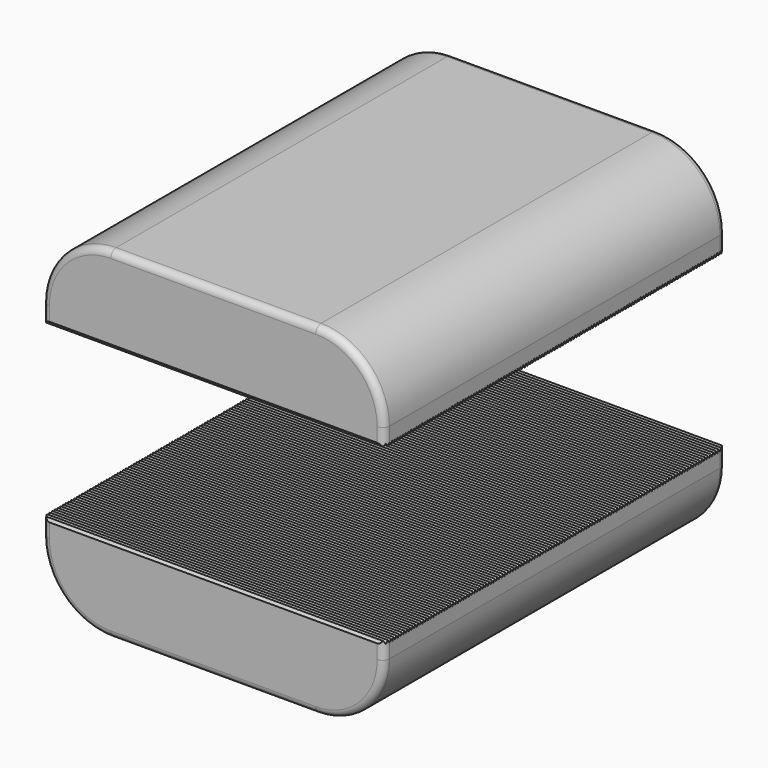
from build123d import *

# Parameters (mm, degrees)
F0_W     = 25.4
F0_H     = 6.35
F1_DEPTH = 15.875
F3_DEPTH = 12.7
F4_R     = 5.08
F5_R     = 0.508


with BuildPart() as f1:
    # F0 (on Front) → F1 (new body, symmetric)
    with BuildSketch(Plane.XZ):
        with Locations((0, -9.525)):
            Rectangle(F0_W, F0_H)
        with Locations((0, 9.525)):
            Rectangle(F0_W, F0_H)
    extrude(amount=F1_DEPTH, both=True)

    # F2 (on Right) → F3 (cut, symmetric)
    with BuildSketch(Plane.YZ):
        Polygon((0.127, 6.56997), (0, 6.35), (-0.127, 6.56997), (-0.254, 6.35), (-0.381, 6.56997), (-0.508, 6.35), (-0.635, 6.56997), (-0.762, 6.35), (-0.889, 6.56997), (-1.016, 6.35), (-1.143, 6.56997), (-1.27, 6.35), (-1.397, 6.56997), (-1.524, 6.35), (-1.651, 6.56997), (-1.778, 6.35), (-1.905, 6.56997), (-2.032, 6.35), (-2.159, 6.56997), (-2.286, 6.35), (-2.413, 6.56997), (-2.54, 6.35), (-2.667, 6.56997), (-2.794, 6.35), (-2.921, 6.56997), (-3.048, 6.35), (-3.175, 6.56997), (-3.302, 6.35), (-3.429, 6.56997), (-3.556, 6.35), (-3.683, 6.56997), (-3.81, 6.35), (-3.937, 6.56997), (-4.064, 6.35), (-4.191, 6.56997), (-4.318, 6.35), (-4.445, 6.56997), (-4.572, 6.35), (-4.699, 6.56997), (-4.826, 6.35), (-4.953, 6.56997), (-5.08, 6.35), (-5.207, 6.56997), (-5.334, 6.35), (-5.461, 6.56997), (-5.588, 6.35), (-5.715, 6.56997), (-5.842, 6.35), (-5.969, 6.56997), (-6.096, 6.35), (-6.223, 6.56997), (-6.35, 6.35), (-6.477, 6.56997), (-6.604, 6.35), (-6.731, 6.56997), (-6.858, 6.35), (-6.985, 6.56997), (-7.112, 6.35), (-7.239, 6.56997), (-7.366, 6.35), (-7.493, 6.56997), (-7.62, 6.35), (-7.747, 6.56997), (-7.874, 6.35), (-8.001, 6.56997), (-8.128, 6.35), (-8.255, 6.56997), (-8.382, 6.35), (-8.509, 6.56997), (-8.636, 6.35), (-8.763, 6.56997), (-8.89, 6.35), (-9.017, 6.56997), (-9.144, 6.35), (-9.271, 6.56997), (-9.398, 6.35), (-9.525, 6.56997), (-9.652, 6.35), (-9.779, 6.56997), (-9.906, 6.35), (-10.033, 6.56997), (-10.16, 6.35), (-10.287, 6.56997), (-10.414, 6.35), (-10.541, 6.56997), (-10.668, 6.35), (-10.795, 6.56997), (-10.922, 6.35), (-11.049, 6.56997), (-11.176, 6.35), (-11.303, 6.56997), (-11.43, 6.35), (-11.557, 6.56997), (-11.684, 6.35), (-11.811, 6.56997), (-11.938, 6.35), (-12.065, 6.56997), (-12.192, 6.35), (-12.319, 6.56997), (-12.446, 6.35), (-12.573, 6.56997), (-12.7, 6.35), (-12.827, 6.56997), (-12.954, 6.35), (-13.081, 6.56997), (-13.208, 6.35), (-13.335, 6.56997), (-13.462, 6.35), (-13.589, 6.56997), (-13.716, 6.35), (-13.843, 6.56997), (-13.97, 6.35), (-14.097, 6.56997), (-14.224, 6.35), (-14.351, 6.56997), (-14.478, 6.35), (-14.605, 6.56997), (-14.732, 6.35), (-14.859, 6.56997), (-14.986, 6.35), (-15.113, 6.56997), (-15.24, 6.35), (-15.367, 6.56997), (-15.494, 6.35), (-15.621, 6.56997), (-15.748, 6.35), (-15.875, 6.56997), (-16.002, 6.35), (-16.129, 6.56997), (-16.256, 6.35), (-16.256, 6.096), (16.256, 6.096), (16.256, 6.35), (16.129, 6.56997), (16.002, 6.35), (15.875, 6.56997), (15.748, 6.35), (15.621, 6.56997), (15.494, 6.35), (15.367, 6.56997), (15.24, 6.35), (15.113, 6.56997), (14.986, 6.35), (14.859, 6.56997), (14.732, 6.35), (14.605, 6.56997), (14.478, 6.35), (14.351, 6.56997), (14.224, 6.35), (14.097, 6.56997), (13.97, 6.35), (13.843, 6.56997), (13.716, 6.35), (13.589, 6.56997), (13.462, 6.35), (13.335, 6.56997), (13.208, 6.35), (13.081, 6.56997), (12.954, 6.35), (12.827, 6.56997), (12.7, 6.35), (12.573, 6.56997), (12.446, 6.35), (12.319, 6.56997), (12.192, 6.35), (12.065, 6.56997), (11.938, 6.35), (11.811, 6.56997), (11.684, 6.35), (11.557, 6.56997), (11.43, 6.35), (11.303, 6.56997), (11.176, 6.35), (11.049, 6.56997), (10.922, 6.35), (10.795, 6.56997), (10.668, 6.35), (10.541, 6.56997), (10.414, 6.35), (10.287, 6.56997), (10.16, 6.35), (10.033, 6.56997), (9.906, 6.35), (9.779, 6.56997), (9.652, 6.35), (9.525, 6.56997), (9.398, 6.35), (9.271, 6.56997), (9.144, 6.35), (9.017, 6.56997), (8.89, 6.35), (8.763, 6.56997), (8.636, 6.35), (8.509, 6.56997), (8.382, 6.35), (8.255, 6.56997), (8.128, 6.35), (8.001, 6.56997), (7.874, 6.35), (7.747, 6.56997), (7.62, 6.35), (7.493, 6.56997), (7.366, 6.35), (7.239, 6.56997), (7.112, 6.35), (6.985, 6.56997), (6.858, 6.35), (6.731, 6.56997), (6.604, 6.35), (6.477, 6.56997), (6.35, 6.35), (6.223, 6.56997), (6.096, 6.35), (5.969, 6.56997), (5.842, 6.35), (5.715, 6.56997), (5.588, 6.35), (5.461, 6.56997), (5.334, 6.35), (5.207, 6.56997), (5.08, 6.35), (4.953, 6.56997), (4.826, 6.35), (4.699, 6.56997), (4.572, 6.35), (4.445, 6.56997), (4.318, 6.35), (4.191, 6.56997), (4.064, 6.35), (3.937, 6.56997), (3.81, 6.35), (3.683, 6.56997), (3.556, 6.35), (3.429, 6.56997), (3.302, 6.35), (3.175, 6.56997), (3.048, 6.35), (2.921, 6.56997), (2.794, 6.35), (2.667, 6.56997), (2.54, 6.35), (2.413, 6.56997), (2.286, 6.35), (2.159, 6.56997), (2.032, 6.35), (1.905, 6.56997), (1.778, 6.35), (1.651, 6.56997), (1.524, 6.35), (1.397, 6.56997), (1.27, 6.35), (1.143, 6.56997), (1.016, 6.35), (0.889, 6.56997), (0.762, 6.35), (0.635, 6.56997), (0.508, 6.35), (0.381, 6.56997), (0.254, 6.35), align=None)
        Polygon((9.652, -6.35), (9.779, -6.56997), (9.906, -6.35), (10.033, -6.56997), (10.16, -6.35), (10.287, -6.56997), (10.414, -6.35), (10.541, -6.56997), (10.668, -6.35), (10.795, -6.56997), (10.922, -6.35), (11.049, -6.56997), (11.176, -6.35), (11.303, -6.56997), (11.43, -6.35), (11.557, -6.56997), (11.684, -6.35), (11.811, -6.56997), (11.938, -6.35), (12.065, -6.56997), (12.192, -6.35), (12.319, -6.56997), (12.446, -6.35), (12.573, -6.56997), (12.7, -6.35), (12.827, -6.56997), (12.954, -6.35), (13.081, -6.56997), (13.208, -6.35), (13.335, -6.56997), (13.462, -6.35), (13.589, -6.56997), (13.716, -6.35), (13.843, -6.56997), (13.97, -6.35), (14.097, -6.56997), (14.224, -6.35), (14.351, -6.56997), (14.478, -6.35), (14.605, -6.56997), (14.732, -6.35), (14.859, -6.56997), (14.986, -6.35), (15.113, -6.56997), (15.24, -6.35), (15.367, -6.56997), (15.494, -6.35), (15.621, -6.56997), (15.748, -6.35), (15.875, -6.56997), (16.002, -6.35), (16.129, -6.56997), (16.256, -6.35), (16.256, -6.096), (-16.256, -6.096), (-16.256, -6.35), (-16.129, -6.56997), (-16.002, -6.35), (-15.875, -6.56997), (-15.748, -6.35), (-15.621, -6.56997), (-15.494, -6.35), (-15.367, -6.56997), (-15.24, -6.35), (-15.113, -6.56997), (-14.986, -6.35), (-14.859, -6.56997), (-14.732, -6.35), (-14.605, -6.56997), (-14.478, -6.35), (-14.351, -6.56997), (-14.224, -6.35), (-14.097, -6.56997), (-13.97, -6.35), (-13.843, -6.56997), (-13.716, -6.35), (-13.589, -6.56997), (-13.462, -6.35), (-13.335, -6.56997), (-13.208, -6.35), (-13.081, -6.56997), (-12.954, -6.35), (-12.827, -6.56997), (-12.7, -6.35), (-12.573, -6.56997), (-12.446, -6.35), (-12.319, -6.56997), (-12.192, -6.35), (-12.065, -6.56997), (-11.938, -6.35), (-11.811, -6.56997), (-11.684, -6.35), (-11.557, -6.56997), (-11.43, -6.35), (-11.303, -6.56997), (-11.176, -6.35), (-11.049, -6.56997), (-10.922, -6.35), (-10.795, -6.56997), (-10.668, -6.35), (-10.541, -6.56997), (-10.414, -6.35), (-10.287, -6.56997), (-10.16, -6.35), (-10.033, -6.56997), (-9.906, -6.35), (-9.779, -6.56997), (-9.652, -6.35), (-9.525, -6.56997), (-9.398, -6.35), (-9.271, -6.56997), (-9.144, -6.35), (-9.017, -6.56997), (-8.89, -6.35), (-8.763, -6.56997), (-8.636, -6.35), (-8.509, -6.56997), (-8.382, -6.35), (-8.255, -6.56997), (-8.128, -6.35), (-8.001, -6.56997), (-7.874, -6.35), (-7.747, -6.56997), (-7.62, -6.35), (-7.493, -6.56997), (-7.366, -6.35), (-7.239, -6.56997), (-7.112, -6.35), (-6.985, -6.56997), (-6.858, -6.35), (-6.731, -6.56997), (-6.604, -6.35), (-6.477, -6.56997), (-6.35, -6.35), (-6.223, -6.56997), (-6.096, -6.35), (-5.969, -6.56997), (-5.842, -6.35), (-5.715, -6.56997), (-5.588, -6.35), (-5.461, -6.56997), (-5.334, -6.35), (-5.207, -6.56997), (-5.08, -6.35), (-4.953, -6.56997), (-4.826, -6.35), (-4.699, -6.56997), (-4.572, -6.35), (-4.445, -6.56997), (-4.318, -6.35), (-4.191, -6.56997), (-4.064, -6.35), (-3.937, -6.56997), (-3.81, -6.35), (-3.683, -6.56997), (-3.556, -6.35), (-3.429, -6.56997), (-3.302, -6.35), (-3.175, -6.56997), (-3.048, -6.35), (-2.921, -6.56997), (-2.794, -6.35), (-2.667, -6.56997), (-2.54, -6.35), (-2.413, -6.56997), (-2.286, -6.35), (-2.159, -6.56997), (-2.032, -6.35), (-1.905, -6.56997), (-1.778, -6.35), (-1.651, -6.56997), (-1.524, -6.35), (-1.397, -6.56997), (-1.27, -6.35), (-1.143, -6.56997), (-1.016, -6.35), (-0.889, -6.56997), (-0.762, -6.35), (-0.635, -6.56997), (-0.508, -6.35), (-0.381, -6.56997), (-0.254, -6.35), (-0.127, -6.56997), (0, -6.35), (0.127, -6.56997), (0.254, -6.35), (0.381, -6.56997), (0.508, -6.35), (0.635, -6.56997), (0.762, -6.35), (0.889, -6.56997), (1.016, -6.35), (1.143, -6.56997), (1.27, -6.35), (1.397, -6.56997), (1.524, -6.35), (1.651, -6.56997), (1.778, -6.35), (1.905, -6.56997), (2.032, -6.35), (2.159, -6.56997), (2.286, -6.35), (2.413, -6.56997), (2.54, -6.35), (2.667, -6.56997), (2.794, -6.35), (2.921, -6.56997), (3.048, -6.35), (3.175, -6.56997), (3.302, -6.35), (3.429, -6.56997), (3.556, -6.35), (3.683, -6.56997), (3.81, -6.35), (3.937, -6.56997), (4.064, -6.35), (4.191, -6.56997), (4.318, -6.35), (4.445, -6.56997), (4.572, -6.35), (4.699, -6.56997), (4.826, -6.35), (4.953, -6.56997), (5.08, -6.35), (5.207, -6.56997), (5.334, -6.35), (5.461, -6.56997), (5.588, -6.35), (5.715, -6.56997), (5.842, -6.35), (5.969, -6.56997), (6.096, -6.35), (6.223, -6.56997), (6.35, -6.35), (6.477, -6.56997), (6.604, -6.35), (6.731, -6.56997), (6.858, -6.35), (6.985, -6.56997), (7.112, -6.35), (7.239, -6.56997), (7.366, -6.35), (7.493, -6.56997), (7.62, -6.35), (7.747, -6.56997), (7.874, -6.35), (8.001, -6.56997), (8.128, -6.35), (8.255, -6.56997), (8.382, -6.35), (8.509, -6.56997), (8.636, -6.35), (8.763, -6.56997), (8.89, -6.35), (9.017, -6.56997), (9.144, -6.35), (9.271, -6.56997), (9.398, -6.35), (9.525, -6.56997), align=None)
    extrude(amount=F3_DEPTH, both=True, mode=Mode.SUBTRACT)

    # F4
    f4_edges = [f1.edges().sort_by_distance(p)[0] for p in [
        (12.7, 0, 12.7),
        (-12.7, 0, 12.7),
        (12.7, 0, -12.7),
        (-12.7, 0, -12.7),
    ]]
    fillet(f4_edges, radius=F4_R)

    # F5
    f5_edges = [f1.edges().sort_by_distance(p)[0] for p in [
        (0, -15.875, 12.7),
        (0, 15.875, 12.7),
        (0, -15.875, -12.7),
        (0, 15.875, -12.7),
    ]]
    fillet(f5_edges, radius=F5_R)


solid = f1.part
